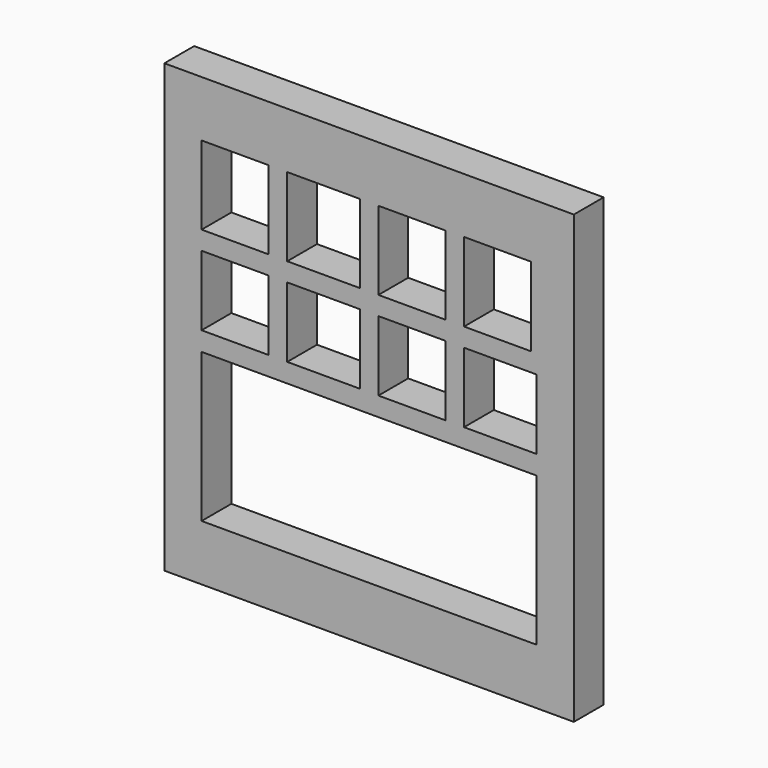
from build123d import *

# Parameters (mm, degrees)
SKETCH_W        = 23
SKETCH_H        = 12
PAD_DEPTH       = 1
SKETCH001_W     = 4
SKETCH001_H     = 4
SKETCH001_W_2   = 9
SKETCH001_W_3   = 1.8
SKETCH001_H_2   = 2.119738
SKETCH001_W_4   = 1.7
SKETCH001_H_3   = 1.880262
SKETCH001_H_4   = 2.108956
SKETCH001_W_5   = 1.95
SKETCH001_H_5   = 1.880263
SKETCH001_H_6   = 2.119737
POCKET_DEPTH    = 5
SKETCH002_W     = 6
SKETCH002_H     = 12
POCKET001_DEPTH = 5


with BuildPart() as part:
    # Sketch → Pad (new body)
    with BuildSketch(Plane.XZ):
        with Locations((0.224666, -4.175566)):
            Rectangle(SKETCH_W, SKETCH_H)
    extrude(amount=PAD_DEPTH)

    # Sketch001 (on Face6 of Pad) → Pocket (cut)
    with BuildSketch(Plane.XZ.offset(1)):
        with Locations((-7.275334, -6.675566)):
            Rectangle(SKETCH001_W, SKETCH001_H)
        with Locations((7.724666, -6.675566)):
            Rectangle(SKETCH001_W, SKETCH001_H)
        with Locations((0.224666, -6.675566)):
            Rectangle(SKETCH001_W_2, SKETCH001_H)
        with Locations((-8.375334, -0.735435)):
            Rectangle(SKETCH001_W_3, SKETCH001_H_2)
        with Locations((-6.125334, -0.735435)):
            Rectangle(SKETCH001_W_4, SKETCH001_H_2)
        with Locations((-8.375334, -3.235435)):
            Rectangle(SKETCH001_W_3, SKETCH001_H_3)
        with Locations((-6.125334, -3.235435)):
            Rectangle(SKETCH001_W_4, SKETCH001_H_3)
        with Locations((-3.375334, -0.730044)):
            Rectangle(SKETCH001_W_3, SKETCH001_H_4)
        with Locations((-1.000334, -0.730044)):
            Rectangle(SKETCH001_W_5, SKETCH001_H_4)
        with Locations((-3.375334, -3.224654)):
            Rectangle(SKETCH001_W_3, SKETCH001_H_5)
        with Locations((-1.000334, -3.224654)):
            Rectangle(SKETCH001_W_5, SKETCH001_H_5)
        with Locations((1.374666, -0.730044)):
            Rectangle(SKETCH001_W_3, SKETCH001_H_4)
        with Locations((3.674666, -0.724653)):
            Rectangle(SKETCH001_W_3, SKETCH001_H_6)
        with Locations((1.374666, -3.224654)):
            Rectangle(SKETCH001_W_3, SKETCH001_H_5)
        with Locations((3.749666, -3.224654)):
            Rectangle(SKETCH001_W_5, SKETCH001_H_5)
        with Locations((6.624666, -0.732224)):
            Rectangle(SKETCH001_W_3, SKETCH001_H_2)
        with Locations((8.874666, -0.732224)):
            Rectangle(SKETCH001_W_4, SKETCH001_H_2)
        with Locations((6.624666, -3.232224)):
            Rectangle(SKETCH001_W_3, SKETCH001_H_3)
        with Locations((8.874666, -3.232224)):
            Rectangle(SKETCH001_W_4, SKETCH001_H_3)
    extrude(amount=-POCKET_DEPTH, mode=Mode.SUBTRACT)

    # Sketch002 (on Face5 of Pocket) → Pocket001 (cut)
    with BuildSketch(Plane.XZ.offset(1)):
        with Locations((-8.275334, -4.175566)):
            Rectangle(SKETCH002_W, SKETCH002_H)
        with Locations((8.724666, -4.175566)):
            Rectangle(SKETCH002_W, SKETCH002_H)
    extrude(amount=-POCKET001_DEPTH, mode=Mode.SUBTRACT)


solid = part.part
